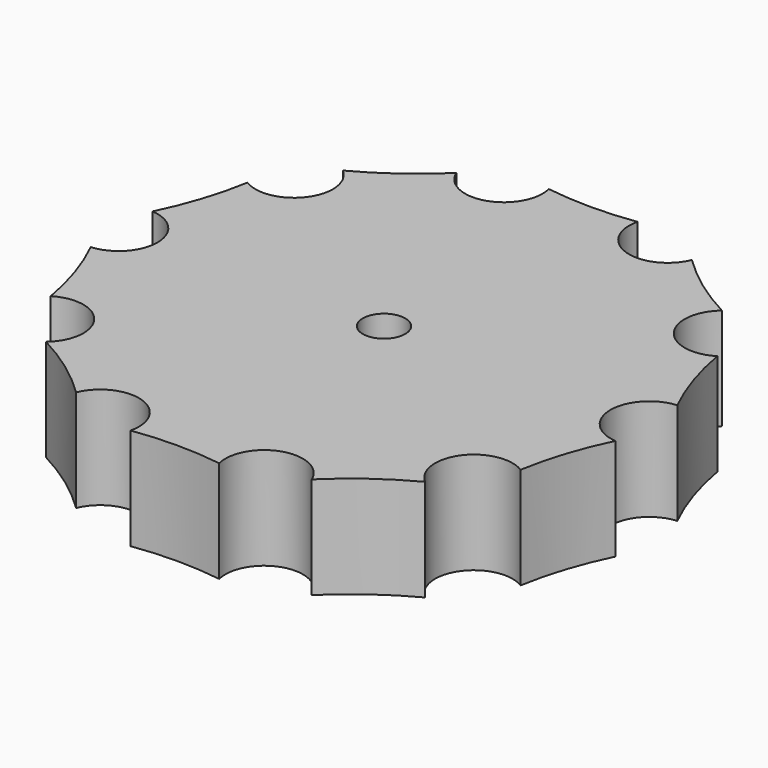
from build123d import *

# Parameters (mm, degrees)
F0_R     = 2
F1_DEPTH = 9.6


with BuildPart() as f1:
    # F0 (on Top) → F1 (new body)
    with BuildSketch(Plane.XY):
        with BuildLine():
            ThreePointArc((24.73355, -3.640262), (21.355068, 0), (24.73355, 3.640262))
            ThreePointArc((24.73355, 3.640262), (23.157443, 7.524309), (22.149554, 11.592982))
            ThreePointArc((22.149554, 11.592982), (17.276613, 12.552194), (17.87017, 17.483049))
            ThreePointArc((17.87017, 17.483049), (14.312087, 19.698898), (11.105182, 22.398101))
            ThreePointArc((11.105182, 22.398101), (6.599079, 20.309876), (4.180993, 24.647907))
            ThreePointArc((4.180993, 24.647907), (0, 24.349177), (-4.180993, 24.647907))
            ThreePointArc((-4.180993, 24.647907), (-6.599079, 20.309876), (-11.105182, 22.398101))
            ThreePointArc((-11.105182, 22.398101), (-14.312087, 19.698898), (-17.87017, 17.483049))
            ThreePointArc((-17.87017, 17.483049), (-17.276613, 12.552194), (-22.149554, 11.592982))
            ThreePointArc((-22.149554, 11.592982), (-23.157443, 7.524309), (-24.73355, 3.640262))
            ThreePointArc((-24.73355, 3.640262), (-21.355068, 0), (-24.73355, -3.640262))
            ThreePointArc((-24.73355, -3.640262), (-23.157443, -7.524309), (-22.149554, -11.592982))
            ThreePointArc((-22.149554, -11.592982), (-17.276613, -12.552194), (-17.87017, -17.483049))
            ThreePointArc((-17.87017, -17.483049), (-14.312087, -19.698898), (-11.105182, -22.398101))
            ThreePointArc((-11.105182, -22.398101), (-6.599079, -20.309876), (-4.180993, -24.647907))
            ThreePointArc((-4.180993, -24.647907), (0, -24.349177), (4.180993, -24.647907))
            ThreePointArc((4.180993, -24.647907), (6.599079, -20.309876), (11.105182, -22.398101))
            ThreePointArc((11.105182, -22.398101), (14.312087, -19.698898), (17.87017, -17.483049))
            ThreePointArc((17.87017, -17.483049), (17.276613, -12.552194), (22.149554, -11.592982))
            ThreePointArc((22.149554, -11.592982), (23.157443, -7.524309), (24.73355, -3.640262))
        make_face()
        Circle(F0_R, mode=Mode.SUBTRACT)
    extrude(amount=F1_DEPTH)


solid = f1.part
